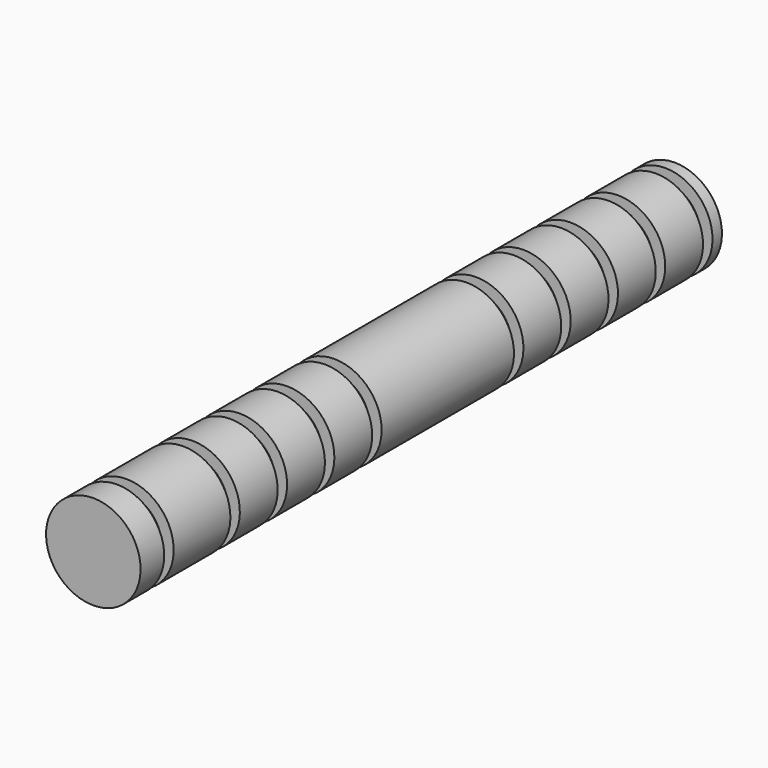
from build123d import *


with BuildPart() as f2:
    # F0 (on Right) → F2 (revolve)
    with BuildSketch(Plane.YZ):
        Polygon((0, 4), (0, 0), (61.5, 0), (61.5, 4), (60.5, 4), (60.5, 3), (59.5, 3), (59.5, 4), (55.5, 4), (55.5, 3), (54.5, 3), (54.5, 4), (50.5, 4), (50.5, 3), (49.5, 3), (49.5, 4), (45.5, 4), (45.5, 3), (44.5, 3), (44.5, 4), (40.5, 4), (40.5, 3), (39.5, 3), (39.5, 4), (25.5, 4), (25.5, 3), (24.5, 3), (24.5, 4), (20.5, 4), (20.5, 3), (19.5, 3), (19.5, 4), (15.5, 4), (15.5, 3), (14.5, 3), (14.5, 4), (10.5, 4), (10.5, 3), (9.5, 3), (9.5, 4), (3.5, 4), (3.5, 3), (2.5, 3), (2.5, 4), align=None)
    revolve(axis=Axis((0, 17.771684, 0), (0, 1, 0)))


solid = f2.part
